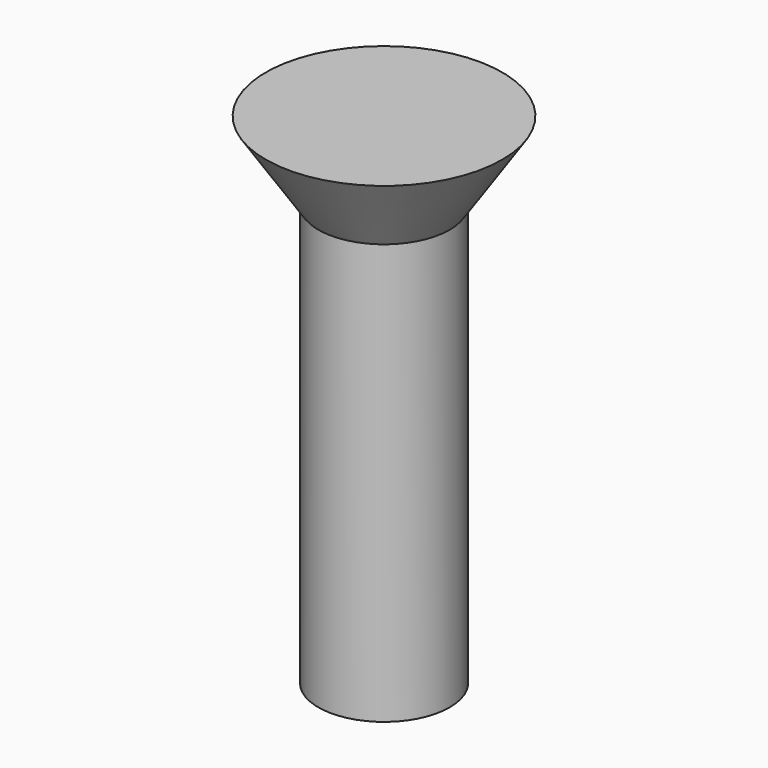
from build123d import *

# Parameters (mm, degrees)
CYLINDER011_R                   = 2.5
CYLINDER011_DEPTH               = 16
FUSION001018017_PLACEMENT_ANGLE = 180
CLONE023_PLACEMENT_ANGLE        = 180


with BuildPart() as cone003:
    # Cone003 → Cone003 (revolve)
    with BuildSketch(Plane(origin=(0, 0, -3), x_dir=(1, 0, 0), z_dir=(0, -1, 0))):
        Polygon((0, 0), (4.5, 0), (2.5, 3), (0, 3), align=None)
    revolve(axis=Axis((0, 0, -3), (0, 0, 1)))


with BuildPart() as obj1:
    # Cylinder011 → Cylinder011 (new body)
    with BuildSketch(Plane.XY):
        Circle(CYLINDER011_R)
    extrude(amount=CYLINDER011_DEPTH)

    # Fusion001018017: union Cone003
    add(cone003.part)


with BuildPart() as obj1_1:
    # Fusion001018017 placement: moved
    add(obj1.part.moved(Location((45, 15, 21))).rotate(Axis((45, 15, 21), (0, 1, 0)), FUSION001018017_PLACEMENT_ANGLE))


with BuildPart() as obj1_2:
    # Clone023 placement: moved
    add(obj1_1.part.moved(Location((115, 270, 0))).rotate(Axis((115, 270, 0), (0, 0, 1)), CLONE023_PLACEMENT_ANGLE))


with BuildPart() as obj1_3:
    # Clone031 placement: moved
    add(obj1_2.part.moved(Location((270, 0, 0))))


solid = obj1_3.part
